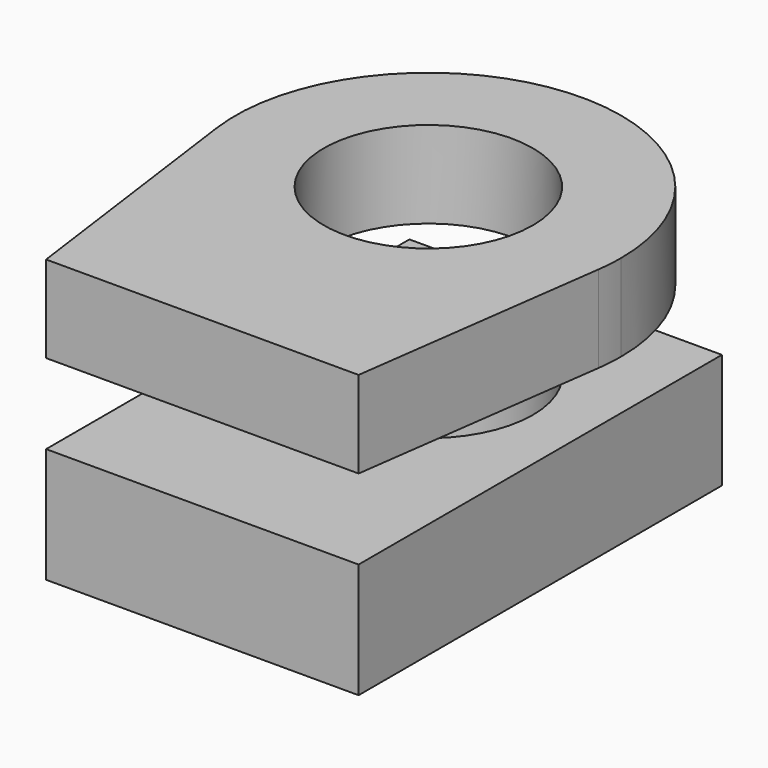
from build123d import *

# Parameters (mm, degrees)
F0_W     = 60.8435235918
F0_H     = 88.41791749
F0_R     = 20.346896913
F1_DEPTH = 22.4
F3_START = 38
F2_R     = 20.346896913
F3_DEPTH = 16.9


with BuildPart() as f1:
    # F0 (on Top) → F1 (new body)
    with BuildSketch(Plane.XY):
        with Locations((0, -10.7899829745)):
            Rectangle(F0_W, F0_H)
        Circle(F0_R, mode=Mode.SUBTRACT)
    extrude(amount=F1_DEPTH)


with BuildPart() as f3:
    # F2 (on Top) → F3 (new body)
    with BuildSketch(Plane.XY.offset(F3_START)):
        with BuildLine():
            ThreePointArc((37.2053081278, -5.0531578866), (37.4614012803, -2.5323450852), (37.5468954444, 0))
            ThreePointArc((37.5468954444, 0), (-2.5323450852, 37.4614012803), (-37.2053081278, -5.0531578866))
            ThreePointArc((-37.2053081278, -5.0531578866), (0, -37.5468954444), (37.2053081278, -5.0531578866))
        make_face()
        Circle(F2_R, mode=Mode.SUBTRACT)
        with BuildLine():
            ThreePointArc((37.2053081278, -5.0531578866), (0, -37.5468954444), (-37.2053081278, -5.0531578866))
            Line((-37.2053081278, -5.0531578866), (-30.4217617959, -54.9989417195))
            Line((-30.4217617959, -54.9989417195), (30.4217617959, -54.9989417195))
            Line((30.4217617959, -54.9989417195), (37.2053081278, -5.0531578866))
        make_face()
    extrude(amount=F3_DEPTH)


solid = Compound([f1.part, f3.part])
